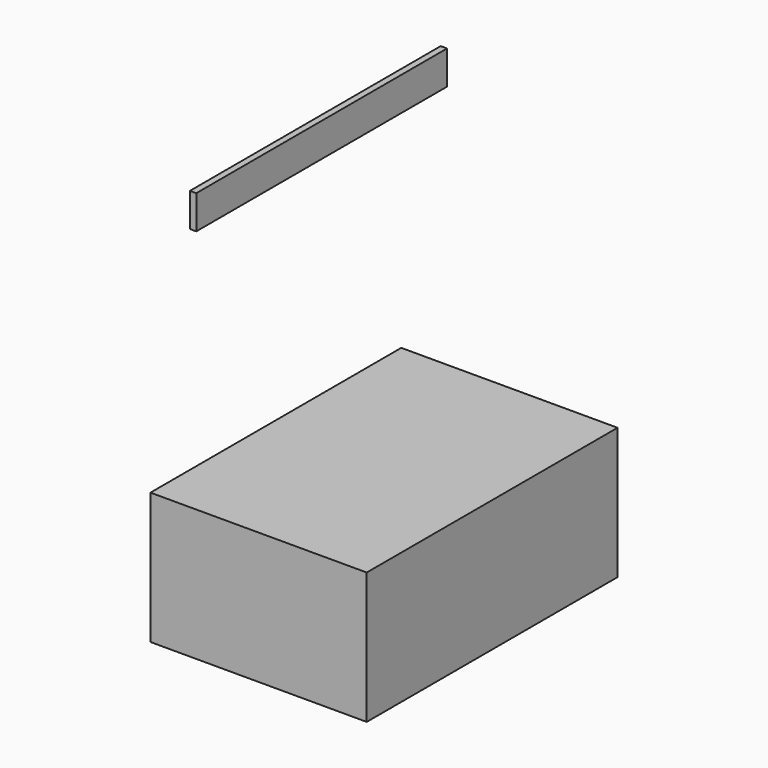
from build123d import *

# Parameters (mm, degrees)
F0_W     = 87.611608
F0_H     = 53.282134
F0_W_2   = 2.576791
F0_H_2   = 13.627901
F1_DEPTH = 127


with BuildPart() as f1:
    # F0 (on Front) → F1 (new body)
    with BuildSketch(Plane.XZ):
        with Locations((-43.805804, 26.641067)):
            Rectangle(F0_W, F0_H)
        with Locations((-70.347007, 159.277015)):
            Rectangle(F0_W_2, F0_H_2)
        with Locations((-43.805804, 26.641067)):
            Rectangle(F0_W, F0_H)
    extrude(amount=F1_DEPTH)


solid = f1.part
